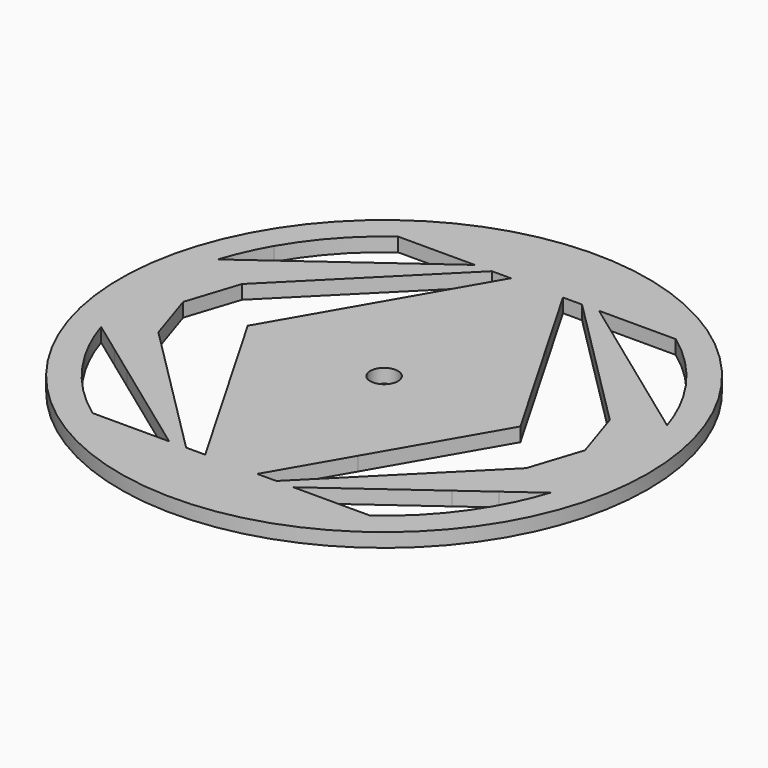
from build123d import *

# Parameters (mm, degrees)
F0_R     = 60.325
F1_DEPTH = 3.175
F0_R_2   = 3.175
F2_DEPTH = 3.175


with BuildPart() as f1:
    # F0 (on Top) → F1 (new body)
    with BuildSketch(Plane.XY):
        Circle(F0_R)
        with BuildLine():
            ThreePointArc((51.333275467, 16.6791922714), (53.3104781836, 8.4435502505), (53.975, 0))
            ThreePointArc((53.975, 0), (53.3104781836, -8.4435502505), (51.333275467, -16.6791922714))
            ThreePointArc((51.333275467, -16.6791922714), (49.3086160763, -21.95361031), (46.7437211693, -26.9875))
            ThreePointArc((46.7437211693, -26.9875), (40.1112419551, -36.1163244782), (31.7257089925, -43.6666922714))
            ThreePointArc((31.7257089925, -43.6666922714), (16.6791922714, -51.333275467), (0, -53.975))
            ThreePointArc((0, -53.975), (-16.6791922714, -51.333275467), (-31.7257089925, -43.6666922714))
            ThreePointArc((-31.7257089925, -43.6666922714), (-40.1112419551, -36.1163244782), (-46.7437211693, -26.9875))
            ThreePointArc((-46.7437211693, -26.9875), (-49.3086160763, -21.95361031), (-51.333275467, -16.6791922714))
            ThreePointArc((-51.333275467, -16.6791922714), (-53.3104781836, -8.4435502505), (-53.975, 0))
            ThreePointArc((-53.975, 0), (-53.3104781836, 8.4435502505), (-51.333275467, 16.6791922714))
            ThreePointArc((-51.333275467, 16.6791922714), (-49.3086160763, 21.95361031), (-46.7437211693, 26.9875))
            ThreePointArc((-46.7437211693, 26.9875), (-40.1112419551, 36.1163244782), (-31.7257089925, 43.6666922714))
            ThreePointArc((-31.7257089925, 43.6666922714), (-16.6791922714, 51.333275467), (0, 53.975))
            ThreePointArc((0, 53.975), (16.6791922714, 51.333275467), (31.7257089925, 43.6666922714))
            ThreePointArc((31.7257089925, 43.6666922714), (40.1112419551, 36.1163244782), (46.7437211693, 26.9875))
            ThreePointArc((46.7437211693, 26.9875), (49.3086160763, 21.95361031), (51.333275467, 16.6791922714))
        make_face(mode=Mode.SUBTRACT)
        Polygon((26.9875, 26.9875), (37.1451070787, 26.9875), (14.1881683883, 43.6666922714), (10.3083077286, 43.6666922714), align=None)
        Polygon((14.1881683883, 43.6666922714), (0, 53.975), (10.3083077286, 43.6666922714), align=None)
        Polygon((40.6016986689, 16.3492049681), (37.1451070787, 26.9875), (26.9875, 26.9875), (39.5124423385, 14.4625576615), align=None)
        Polygon((40.6016986689, 16.3492049681), (43.90722062, 22.074536933), (37.1451070787, 26.9875), align=None)
        Polygon((39.5124423385, 14.4625576615), (42.0340167211, 11.9409832789), (40.6016986689, 16.3492049681), align=None)
        Polygon((47.8907651274, 6.0842348726), (51.333275467, 16.6791922714), (43.90722062, 22.074536933), (40.6016986689, 16.3492049681), (42.0340167211, 11.9409832789), align=None)
        with BuildLine():
            Line((47.8907651274, 6.0842348726), (53.975, 0))
            ThreePointArc((53.975, 0), (53.3104781836, 8.4435502505), (51.333275467, 16.6791922714))
            Line((51.333275467, 16.6791922714), (47.8907651274, 6.0842348726))
        make_face()
        Polygon((47.8907651274, -6.0842348726), (53.975, 0), (47.8907651274, 6.0842348726), (45.9138773808, 0), align=None)
        with BuildLine():
            ThreePointArc((51.333275467, -16.6791922714), (53.3104781836, -8.4435502505), (53.975, 0))
            Line((53.975, 0), (47.8907651274, -6.0842348726))
            Line((47.8907651274, -6.0842348726), (51.333275467, -16.6791922714))
        make_face()
        Polygon((43.90722062, -22.074536933), (51.333275467, -16.6791922714), (47.8907651274, -6.0842348726), (42.0340167211, -11.9409832789), (40.6016986689, -16.3492049681), align=None)
        Polygon((37.1451070787, -26.9875), (43.90722062, -22.074536933), (40.6016986689, -16.3492049681), align=None)
        Polygon((26.9875, -26.9875), (37.1451070787, -26.9875), (40.6016986689, -16.3492049681), (39.5124423385, -14.4625576615), align=None)
        Polygon((14.1881683883, -43.6666922714), (37.1451070787, -26.9875), (26.9875, -26.9875), (10.3083077286, -43.6666922714), align=None)
        Polygon((10.3083077286, -43.6666922714), (0, -53.975), (14.1881683883, -43.6666922714), align=None)
        Polygon((40.6016986689, -16.3492049681), (42.0340167211, -11.9409832789), (39.5124423385, -14.4625576615), align=None)
        Polygon((45.9138773808, 0), (47.8907651274, 6.0842348726), (42.0340167211, 11.9409832789), align=None)
        Polygon((42.0340167211, -11.9409832789), (47.8907651274, -6.0842348726), (45.9138773808, 0), align=None)
        Polygon((-10.3083077286, 43.6666922714), (0, 53.975), (-14.1881683883, 43.6666922714), align=None)
        Polygon((-10.3083077286, 43.6666922714), (-14.1881683883, 43.6666922714), (-37.1451070787, 26.9875), (-26.9875, 26.9875), align=None)
        Polygon((-26.9875, 26.9875), (-37.1451070787, 26.9875), (-40.6016986689, 16.3492049681), (-39.5124423385, 14.4625576615), align=None)
        Polygon((-40.6016986689, 16.3492049681), (-37.1451070787, 26.9875), (-43.90722062, 22.074536933), align=None)
        Polygon((-43.90722062, 22.074536933), (-51.333275467, 16.6791922714), (-47.8907651274, 6.0842348726), (-42.0340167211, 11.9409832789), (-40.6016986689, 16.3492049681), align=None)
        Polygon((-39.5124423385, 14.4625576615), (-40.6016986689, 16.3492049681), (-42.0340167211, 11.9409832789), align=None)
        Polygon((-42.0340167211, 11.9409832789), (-47.8907651274, 6.0842348726), (-45.9138773808, 0), align=None)
        Polygon((-47.8907651274, 6.0842348726), (-53.975, 0), (-47.8907651274, -6.0842348726), (-45.9138773808, 0), align=None)
        Polygon((-45.9138773808, 0), (-47.8907651274, -6.0842348726), (-42.0340167211, -11.9409832789), align=None)
        with BuildLine():
            Line((-47.8907651274, 6.0842348726), (-51.333275467, 16.6791922714))
            ThreePointArc((-51.333275467, 16.6791922714), (-53.3104781836, 8.4435502505), (-53.975, 0))
            Line((-53.975, 0), (-47.8907651274, 6.0842348726))
        make_face()
        Polygon((-14.1881683883, -43.6666922714), (-10.3083077286, -43.6666922714), (-26.9875, -26.9875), (-37.1451070787, -26.9875), align=None)
        Polygon((-14.1881683883, -43.6666922714), (0, -53.975), (-10.3083077286, -43.6666922714), align=None)
        Polygon((-47.8907651274, -6.0842348726), (-51.333275467, -16.6791922714), (-43.90722062, -22.074536933), (-40.6016986689, -16.3492049681), (-42.0340167211, -11.9409832789), align=None)
        with BuildLine():
            ThreePointArc((-53.975, 0), (-53.3104781836, -8.4435502505), (-51.333275467, -16.6791922714))
            Line((-51.333275467, -16.6791922714), (-47.8907651274, -6.0842348726))
            Line((-47.8907651274, -6.0842348726), (-53.975, 0))
        make_face()
        Polygon((-43.90722062, -22.074536933), (-37.1451070787, -26.9875), (-40.6016986689, -16.3492049681), align=None)
        Polygon((-40.6016986689, -16.3492049681), (-37.1451070787, -26.9875), (-26.9875, -26.9875), (-39.5124423385, -14.4625576615), align=None)
        Polygon((-42.0340167211, -11.9409832789), (-40.6016986689, -16.3492049681), (-39.5124423385, -14.4625576615), align=None)
        with BuildLine():
            ThreePointArc((0, -53.975), (16.6791922714, -51.333275467), (31.7257089925, -43.6666922714))
            Line((31.7257089925, -43.6666922714), (14.1881683883, -43.6666922714))
            Line((14.1881683883, -43.6666922714), (0, -53.975))
        make_face()
        with BuildLine():
            ThreePointArc((-31.7257089925, -43.6666922714), (-16.6791922714, -51.333275467), (0, -53.975))
            Line((0, -53.975), (-14.1881683883, -43.6666922714))
            Line((-14.1881683883, -43.6666922714), (-31.7257089925, -43.6666922714))
        make_face()
        with BuildLine():
            Line((-14.1881683883, 43.6666922714), (0, 53.975))
            ThreePointArc((0, 53.975), (-16.6791922714, 51.333275467), (-31.7257089925, 43.6666922714))
            Line((-31.7257089925, 43.6666922714), (-14.1881683883, 43.6666922714))
        make_face()
        with BuildLine():
            Line((14.1881683883, 43.6666922714), (31.7257089925, 43.6666922714))
            ThreePointArc((31.7257089925, 43.6666922714), (16.6791922714, 51.333275467), (0, 53.975))
            Line((0, 53.975), (14.1881683883, 43.6666922714))
        make_face()
    extrude(amount=F1_DEPTH)

    # F0 (on Top) → F2 (join)
    with BuildSketch(Plane.XY):
        Polygon((5.951504242, 43.6666922714), (0, 53.975), (-5.951504242, 43.6666922714), align=None)
        Polygon((15.5812403898, 26.9875), (5.951504242, 43.6666922714), (-5.951504242, 43.6666922714), (-15.5812403898, 26.9875), align=None)
        Polygon((15.5812403898, -26.9875), (31.1624807795, 0), (15.5812403898, 26.9875), (-15.5812403898, 26.9875), (-31.1624807795, 0), (-15.5812403898, -26.9875), align=None)
        Circle(F0_R_2, mode=Mode.SUBTRACT)
        Polygon((-5.951504242, -43.6666922714), (0, -53.975), (5.951504242, -43.6666922714), align=None)
        Polygon((-15.5812403898, -26.9875), (-5.951504242, -43.6666922714), (5.951504242, -43.6666922714), (15.5812403898, -26.9875), align=None)
        Polygon((5.951504242, -43.6666922714), (0, -53.975), (10.3083077286, -43.6666922714), align=None)
        Polygon((-10.3083077286, -43.6666922714), (0, -53.975), (-5.951504242, -43.6666922714), align=None)
        Polygon((-5.951504242, 43.6666922714), (0, 53.975), (-10.3083077286, 43.6666922714), align=None)
        Polygon((10.3083077286, 43.6666922714), (0, 53.975), (5.951504242, 43.6666922714), align=None)
    extrude(amount=F2_DEPTH)


solid = f1.part
